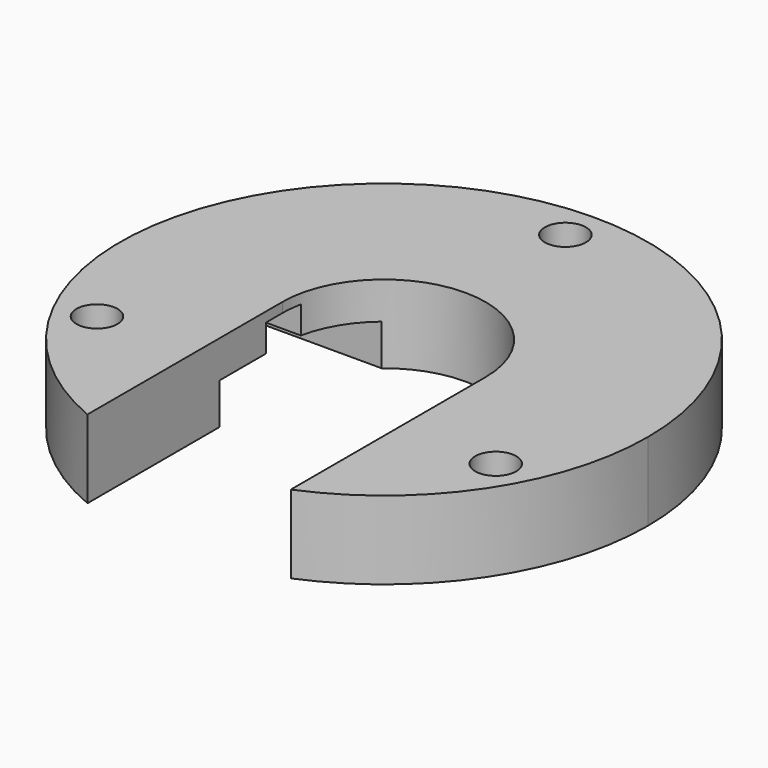
from build123d import *

# Parameters (mm, degrees)
F0_R     = 5.25
F1_DEPTH = 20
F3_DEPTH = 10.5
F4_R     = 10
F6_DEPTH = 7
F8_DEPTH = 7


with BuildPart() as f1:
    # F0 (on Top) → F1 (new body)
    with BuildSketch(Plane.XY):
        with BuildLine():
            ThreePointArc((26, -62.2916527313), (56.1749499332, -37.4249248496), (67.5, 0))
            ThreePointArc((67.5, 0), (-37.4249248496, 56.1749499332), (-26, -62.2916527313))
            Line((-26, -62.2916527313), (-26, 0))
            ThreePointArc((-26, 0), (0, 26), (26, 0))
            Line((26, 0), (26, -62.2916527313))
        make_face()
        with Locations((-51, -28)):
            Circle(F0_R, mode=Mode.SUBTRACT)
        with Locations((51, -28)):
            Circle(F0_R, mode=Mode.SUBTRACT)
        with Locations((0, 58)):
            Circle(F0_R, mode=Mode.SUBTRACT)
        with BuildLine():
            ThreePointArc((26, -62.2916527313), (56.1749499332, -37.4249248496), (67.5, 0))
            ThreePointArc((67.5, 0), (-37.4249248496, 56.1749499332), (-26, -62.2916527313))
            Line((-26, -62.2916527313), (-26, 0))
            ThreePointArc((-26, 0), (0, 26), (26, 0))
            Line((26, 0), (26, -62.2916527313))
        make_face()
        with Locations((-51, -28)):
            Circle(F0_R, mode=Mode.SUBTRACT)
        with Locations((51, -28)):
            Circle(F0_R, mode=Mode.SUBTRACT)
        with Locations((0, 58)):
            Circle(F0_R, mode=Mode.SUBTRACT)
    extrude(amount=F1_DEPTH)

    # F2 (on face) → F3 (cut)
    with BuildSketch(Plane(origin=(0, 0, 0), x_dir=(1, 0, 0), z_dir=(0, 0, -1))):
        with BuildLine():
            Line((16.6132477258, -20), (52.0419568735, -20))
            Line((52.0419568735, -20), (52.0419568735, 20))
            Line((52.0419568735, 20), (26, 20))
            Line((26, 20), (26, 0))
            ThreePointArc((26, 0), (23.5366144642, -11.0466184674), (16.6132477258, -20))
        make_face()
        with BuildLine():
            Line((-64.4689847911, -20), (-16.6132477258, -20))
            ThreePointArc((-16.6132477258, -20), (-23.5366144642, -11.0466184674), (-26, 0))
            Line((-26, 0), (-26, 20))
            Line((-26, 20), (-64.4689847911, 20))
            ThreePointArc((-64.4689847911, 20), (-67.5, 0), (-64.4689847911, -20))
        make_face()
    extrude(amount=-F3_DEPTH, mode=Mode.SUBTRACT)

    # F4
    f4_edges = [f1.edges().sort_by_distance(p)[0] for p in [
        (52.041957, 20, 5.25),
        (52.041957, -20, 5.25),
    ]]
    fillet(f4_edges, radius=F4_R)

    # F5 (on face) → F6 (cut)
    with BuildSketch(Plane(origin=(0, 0, 10.5), x_dir=(1, 0, 0), z_dir=(0, 0, -1))):
        with BuildLine():
            ThreePointArc((33.629886806, -5), (37.1654207119, -3.5355339059), (38.629886806, 0))
            ThreePointArc((38.629886806, 0), (37.1654207119, 3.5355339059), (33.629886806, 5))
            ThreePointArc((33.629886806, 5), (28.629886806, 0), (33.629886806, -5))
        make_face()
        with BuildLine():
            ThreePointArc((33.629886806, -5), (28.629886806, 0), (33.629886806, 5))
            Line((33.629886806, 5), (26, 5))
            Line((26, 5), (26, 0))
            ThreePointArc((26, 0), (25.8783910121, -2.511748121), (25.5147016443, -5))
            Line((25.5147016443, -5), (33.629886806, -5))
        make_face()
    extrude(amount=-F6_DEPTH, mode=Mode.SUBTRACT)

    # F7 (on face) → F8 (cut)
    with BuildSketch(Plane(origin=(0, 0, 10.5), x_dir=(1, 0, 0), z_dir=(0, 0, -1))):
        with BuildLine():
            ThreePointArc((-45.8243116736, -5.25), (-42.1120010724, -3.7123106012), (-40.5743116736, 0))
            ThreePointArc((-40.5743116736, 0), (-42.1120010724, 3.7123106012), (-45.8243116736, 5.25))
            ThreePointArc((-45.8243116736, 5.25), (-51.0743116736, 0), (-45.8243116736, -5.25))
        make_face()
        with BuildLine():
            ThreePointArc((-45.8243116736, 5.25), (-42.1120010724, 3.7123106012), (-40.5743116736, 0))
            ThreePointArc((-40.5743116736, 0), (-42.1120010724, -3.7123106012), (-45.8243116736, -5.25))
            Line((-45.8243116736, -5.25), (-25.4644359843, -5.25))
            ThreePointArc((-25.4644359843, -5.25), (-25.8657624631, -2.6386231644), (-26, 0))
            Line((-26, 0), (-26, 5.25))
            Line((-26, 5.25), (-45.8243116736, 5.25))
        make_face()
    extrude(amount=-F8_DEPTH, mode=Mode.SUBTRACT)


solid = f1.part
